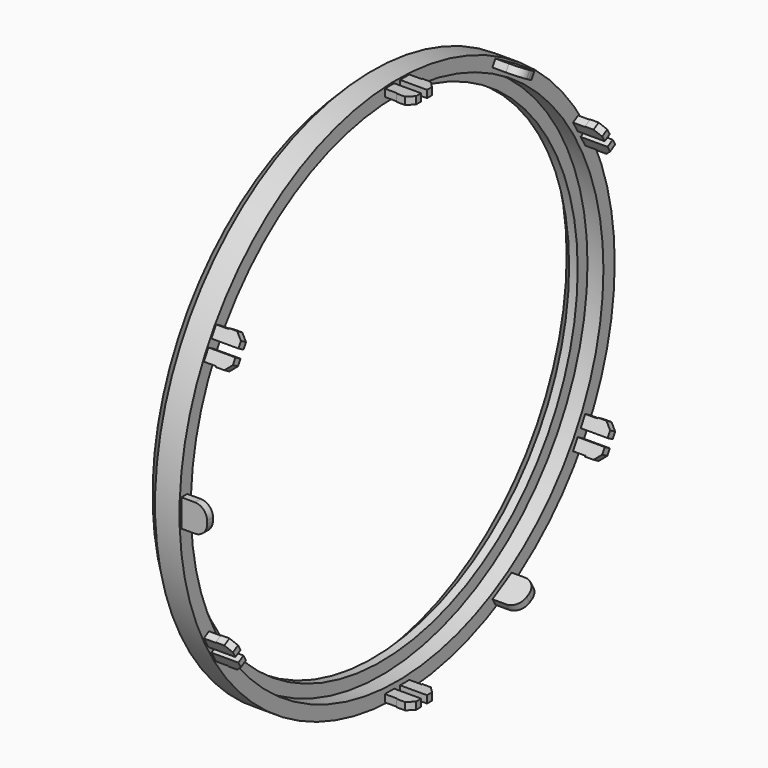
from build123d import *

# Parameters (mm, degrees)
BOX003_W        = 2
BOX003_H        = 3
BOX003_DEPTH    = 10
ARRAY004_COUNT  = 6
BOX004_W        = 2
BOX004_H        = 3
BOX004_DEPTH    = 10
ARRAY003_COUNT  = 6
BOX001_W        = 5
BOX001_H        = 1.2
BOX001_DEPTH    = 10
ARRAY002_COUNT  = 6
CHAMFER_SIZE    = 2
CHAMFER001_SIZE = 2
BOX002_W        = 4.2
BOX002_H        = 1.2
BOX002_DEPTH    = 4.5
ARRAY_COUNT     = 3
BOX_W           = 4.4
BOX_H           = 5.25
BOX_DEPTH       = 1.2
ARRAY001_COUNT  = 6
CHAMFER002_SIZE = 1
FILLET_R        = 2


with BuildPart() as array004:
    # Box003 → Box003 (new body)
    with BuildSketch(Plane(origin=(0, -5.5, 38), x_dir=(1, 0, 0), z_dir=(0, 0, 1))):
        with Locations((1, 1.5)):
            Rectangle(BOX003_W, BOX003_H)
    extrude(amount=BOX003_DEPTH)

    # Array004: Array004 ×6 about axis
    array004_axis = Axis((0, 0, 0), (1, 0, 0))


with BuildPart() as array004_1:
    add(array004.part)
    for i in range(1, ARRAY004_COUNT):
        add(array004.part.rotate(array004_axis, i * 360 / ARRAY004_COUNT))


with BuildPart() as array003:
    # Box004 → Box004 (new body)
    with BuildSketch(Plane(origin=(0, 2.5, 38), x_dir=(1, 0, 0), z_dir=(0, 0, 1))):
        with Locations((1, 1.5)):
            Rectangle(BOX004_W, BOX004_H)
    extrude(amount=BOX004_DEPTH)

    # Array003: Array003 ×6 about axis
    array003_axis = Axis((0, 0, 0), (1, 0, 0))


with BuildPart() as array003_1:
    add(array003.part)
    for i in range(1, ARRAY003_COUNT):
        add(array003.part.rotate(array003_axis, i * 360 / ARRAY003_COUNT))


with BuildPart() as array002:
    # Box001 → Box001 (new body)
    with BuildSketch(Plane(origin=(0, -0.6, 38), x_dir=(1, 0, 0), z_dir=(0, 0, 1))):
        with Locations((2.5, 0.6)):
            Rectangle(BOX001_W, BOX001_H)
    extrude(amount=BOX001_DEPTH)

    # Array002: Array002 ×6 about axis
    array002_axis = Axis((0, 0, 0), (1, 0, 0))


with BuildPart() as array002_1:
    add(array002.part)
    for i in range(1, ARRAY002_COUNT):
        add(array002.part.rotate(array002_axis, i * 360 / ARRAY002_COUNT))


with BuildPart() as chamfer001:
    # Sketch → Revolution (revolve)
    with BuildSketch(Plane.XY):
        Polygon((-6, 44.4), (0, 44.4), (0, 42.1), (-2.6, 42.1), (-2.6, 40.1), (-6, 40.1), align=None)
    revolve(axis=Axis((0, 0, 0), (1, 0, 0)))

    # Chamfer
    chamfer_edges = [chamfer001.edges().sort_by_distance(p)[0] for p in [
        (-6, -44.4, 0),
    ]]
    chamfer(chamfer_edges, length=CHAMFER_SIZE)

    # Chamfer001
    chamfer001_edges = [chamfer001.edges().sort_by_distance(p)[0] for p in [
        (-6, -40.1, 0),
    ]]
    chamfer(chamfer001_edges, length=CHAMFER001_SIZE)


with BuildPart() as fusion:
    # Box002 → Box002 (new body)
    with BuildSketch(Plane(origin=(0, -44.025, -2.25), x_dir=(1, 0, 0), z_dir=(0, 0, 1))):
        with Locations((2.1, 0.6)):
            Rectangle(BOX002_W, BOX002_H)
    extrude(amount=BOX002_DEPTH)

    # Array: Fusion ×3 about axis
    array_axis = Axis((0, 0, 0), (1, 0, 0))


with BuildPart() as fusion_1:
    add(fusion.part)
    for i in range(1, ARRAY_COUNT):
        add(fusion.part.rotate(array_axis, i * 360 / ARRAY_COUNT))

    # Fusion: union Chamfer001
    add(chamfer001.part)


with BuildPart() as fillet_body:
    # Box → Box (new body)
    with BuildSketch(Plane(origin=(0, -2.625, 42.9), x_dir=(1, 0, 0), z_dir=(0, 0, 1))):
        with Locations((2.2, 2.625)):
            Rectangle(BOX_W, BOX_H)
    extrude(amount=BOX_DEPTH)

    # Array001: Fillet body ×6 about axis
    array001_axis = Axis((0, 0, 0), (1, 0, 0))


with BuildPart() as fillet_body_1:
    add(fillet_body.part)
    for i in range(1, ARRAY001_COUNT):
        add(fillet_body.part.rotate(array001_axis, i * 360 / ARRAY001_COUNT))

    # Fusion001: union Fusion
    add(fusion_1.part)

    # Cut: cut Array002
    add(array002_1.part, mode=Mode.SUBTRACT)

    # Cut001: cut Array003
    add(array003_1.part, mode=Mode.SUBTRACT)

    # Cut002: cut Array004
    add(array004_1.part, mode=Mode.SUBTRACT)

    # Chamfer002
    chamfer002_edges = [fillet_body_1.edges().sort_by_distance(p)[0] for p in [
        (4.4, -38.984605, 19.476683),
        (4.4, -38.984605, -19.476683),
        (4.4, 38.984605, -19.476683),
        (4.4, 36.359605, 24.023317),
        (4.4, 36.359605, -24.023317),
        (4.4, -36.359605, -24.023317),
        (4.4, 38.984605, 19.476683),
        (4.4, -36.359605, 24.023317),
        (4.4, 2.625, -43.5),
        (4.4, -2.625, -43.5),
        (4.4, 2.625, 43.5),
        (4.4, -2.625, 43.5),
    ]]
    chamfer(chamfer002_edges, length=CHAMFER002_SIZE)

    # Fillet
    fillet_edges = [fillet_body_1.edges().sort_by_distance(p)[0] for p in [
        (4.2, 23.661057, 36.482153),
        (4.2, 19.763943, 38.732153),
        (4.2, 19.763943, -38.732153),
        (4.2, 23.661057, -36.482153),
        (4.2, -43.425, 2.25),
        (4.2, -43.425, -2.25),
    ]]
    fillet(fillet_edges, radius=FILLET_R)


solid = fillet_body_1.part
